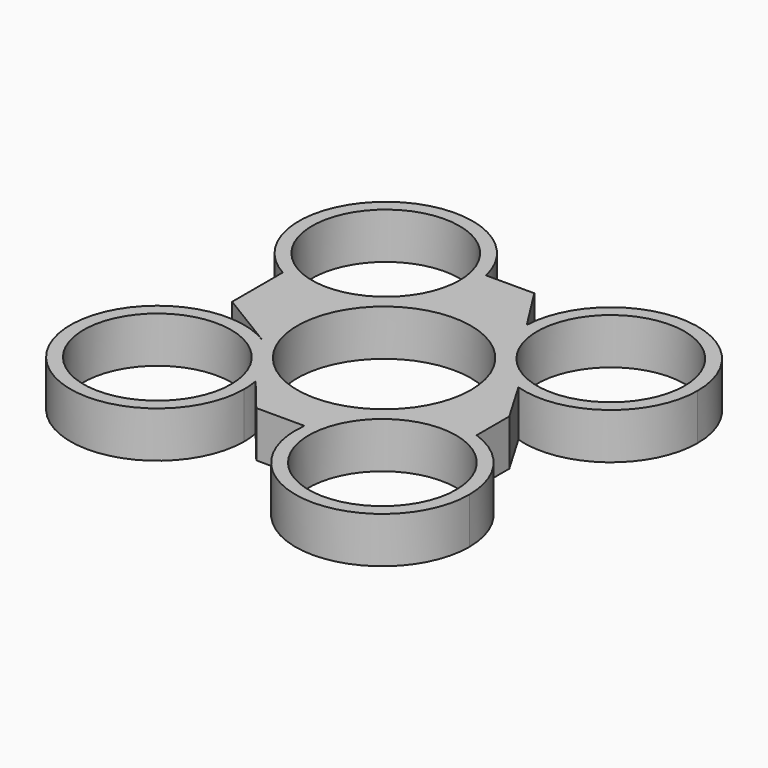
from build123d import *

# Parameters (mm, degrees)
F0_R     = 11.2
F0_R_2   = 13.2
F1_DEPTH = 7


with BuildPart() as f1:
    # F0 (on Top) → F1 (new body)
    with BuildSketch(Plane.XY):
        with BuildLine():
            ThreePointArc((17.156998, 4.054863), (28.928834, 6.001855), (34.321521, 16.645437))
            ThreePointArc((34.321521, 16.645437), (21.387474, 29.842758), (7.932237, 17.177236))
            ThreePointArc((7.932237, 17.177236), (10.322797, 9.054155), (17.156998, 4.054863))
        make_face()
        with Locations((21.121521, 16.645437)):
            Circle(F0_R, mode=Mode.SUBTRACT)
        with BuildLine():
            ThreePointArc((17.156998, 4.054863), (10.322797, 9.054155), (7.932237, 17.177236))
            Line((7.932237, 17.177236), (3.535035, 24.094587))
            Line((3.535035, 24.094587), (-3.786889, 24.094587))
            ThreePointArc((-3.786889, 24.094587), (-3.533888, 22.620829), (-3.449192, 21.127913))
            ThreePointArc((-3.449192, 21.127913), (-9.966852, 9.744314), (-23.083484, 9.602294))
            Line((-23.083484, 9.602294), (-23.083484, 0))
            Line((-23.083484, 0), (-14.266823, -5.368319))
            ThreePointArc((-14.266823, -5.368319), (-10.27716, -9.131498), (-8.161303, -14.191348))
            Line((-8.161303, -14.191348), (-3.786889, -19.53627))
            Line((-3.786889, -19.53627), (3.535035, -19.53627))
            ThreePointArc((3.535035, -19.53627), (9.658903, -9.921811), (20.988215, -8.662342))
            Line((20.988215, -8.662342), (20.988215, -2.467444))
            Line((20.988215, -2.467444), (17.156998, 4.054863))
        make_face()
        Circle(F0_R_2, mode=Mode.SUBTRACT)
        with BuildLine():
            ThreePointArc((-3.449192, 21.127913), (-3.533888, 22.620829), (-3.786889, 24.094587))
            ThreePointArc((-3.786889, 24.094587), (-24.576138, 31.6827), (-23.083484, 9.602294))
            ThreePointArc((-23.083484, 9.602294), (-9.966852, 9.744314), (-3.449192, 21.127913))
        make_face()
        with Locations((-16.649192, 21.127913)):
            Circle(F0_R, mode=Mode.SUBTRACT)
        with BuildLine():
            ThreePointArc((29.839044, -21.125276), (27.401225, -13.482274), (20.988215, -8.662342))
            ThreePointArc((20.988215, -8.662342), (9.658903, -9.921811), (3.535035, -19.53627))
            ThreePointArc((3.535035, -19.53627), (15.843093, -34.301256), (29.839044, -21.125276))
        make_face()
        with Locations((16.639044, -21.125276)):
            Circle(F0_R, mode=Mode.SUBTRACT)
        with BuildLine():
            ThreePointArc((-8.161303, -14.191348), (-10.27716, -9.131498), (-14.266823, -5.368319))
            ThreePointArc((-14.266823, -5.368319), (-32.639404, -23.109021), (-7.931668, -16.6428))
            ThreePointArc((-7.931668, -16.6428), (-7.989202, -15.411708), (-8.161303, -14.191348))
        make_face()
        with Locations((-21.131668, -16.6428)):
            Circle(F0_R, mode=Mode.SUBTRACT)
    extrude(amount=F1_DEPTH)


solid = f1.part
